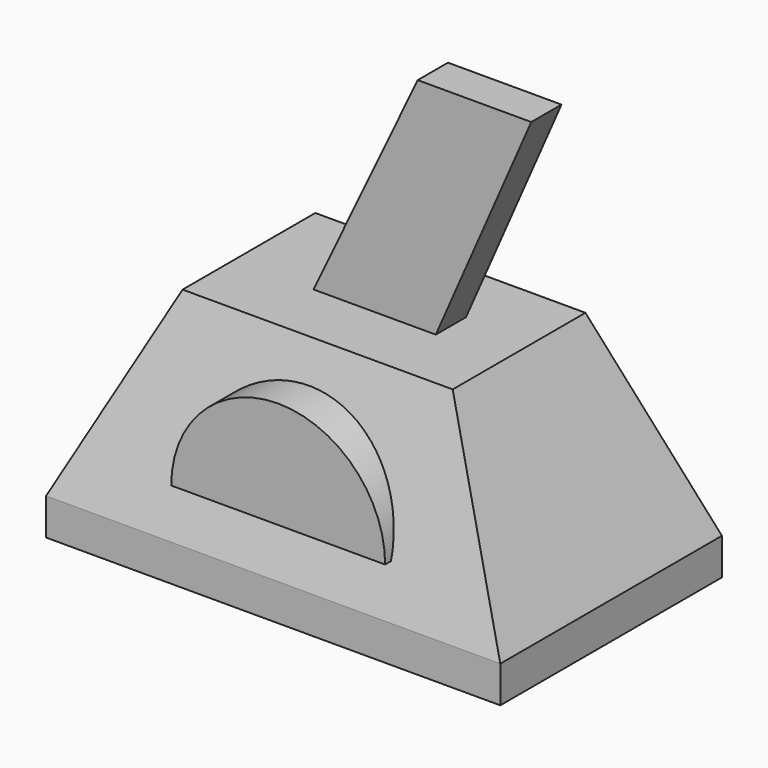
from build123d import *

# Parameters (mm, degrees)
F1_W     = 207.582682
F1_H     = 126.610666
F2_W     = 123.456738
F2_H     = 75.831934
F5_DEPTH = 60.452
F6_W     = 207.582682
F6_H     = 126.610666
F7_DEPTH = 16.764
F8_DEPTH = 8.636


with BuildPart() as f3:
    # F1 (on Top) → F3 section 0
    with BuildSketch(Plane.XY):
        Rectangle(F1_W, F1_H)
    # F2 (on offset) → F3 section 1
    with BuildSketch(Plane.XY.offset(86.36)):
        Rectangle(F2_W, F2_H)
    loft()

    # F4 (on Front) → F5 (join, symmetric)
    with BuildSketch(Plane.XZ):
        with BuildLine():
            Line((-48.884847, 20.875009), (48.884847, 20.875009))
            ThreePointArc((48.884847, 20.875009), (0, 69.759856), (-48.884847, 20.875009))
        make_face()
    extrude(amount=F5_DEPTH, both=True)

    # F6 (on face) → F7 (join)
    with BuildSketch(Plane(origin=(0, 0, 0), x_dir=(1, 0, 0), z_dir=(0, 0, -1))):
        Rectangle(F6_W, F6_H)
    extrude(amount=F7_DEPTH)

    # F4 (on Front) → F8 (join, symmetric)
    with BuildSketch(Plane.XZ):
        Polygon((22.331208, 186.080039), (-26.018247, 84.848367), (-29.040085, 81.322886), (28.374884, 81.322886), (74.206144, 186.080039), align=None)
    extrude(amount=F8_DEPTH, both=True)


solid = f3.part
